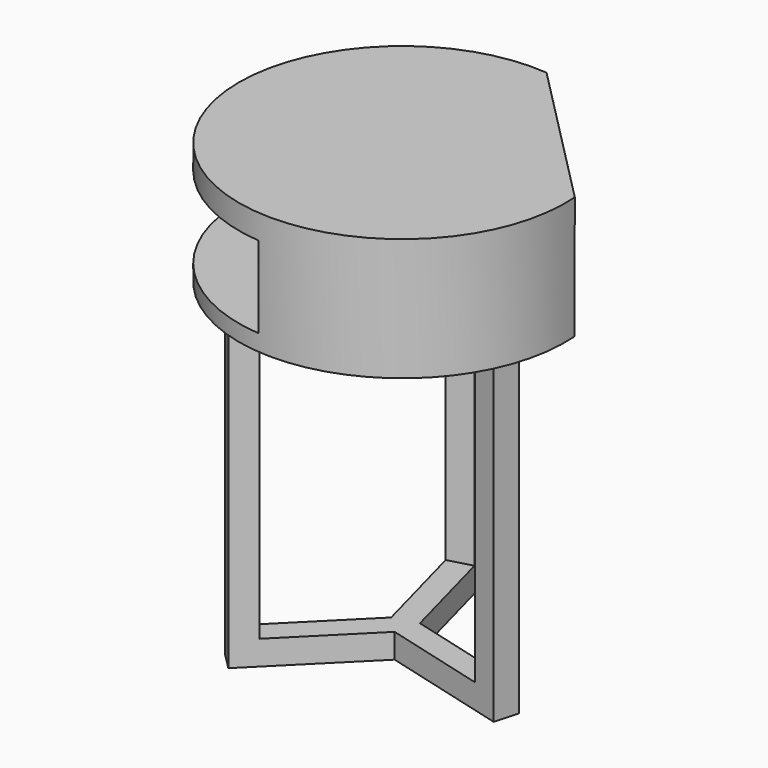
from build123d import *

# Parameters (mm, degrees)
F1_DEPTH  = 38.1
F2_DEPTH  = 469.9
F3_DEPTH  = 469.9
F4_DEPTH  = 469.9
F6_DEPTH  = 25.4
F8_DEPTH  = 127
F9_R      = 254
F10_DEPTH = 38.1
F12_DEPTH = 38.1


with BuildPart() as f1:
    # F0 (on Top) → F1 (new body)
    with BuildSketch(Plane.XY):
        Polygon((-164.0508631923, -164.0508649307), (-200.8490917777, -173.9250926458), (-173.9250929642, -200.8490929642), align=None)
        Polygon((-173.9250929642, -200.8490929642), (-200.8490917777, -173.9250926458), (-317.5924246142, -290.6684189572), (-290.6851930936, -317.6091865675), align=None)
        Polygon((-243.6374118769, -14.4661021088), (-200.8490917777, -173.9250926458), (-164.0508631923, -164.0508649307), (-206.8391832914, -4.5918743936), align=None)
        Polygon((-164.0508631923, -164.0508649307), (-173.9250929642, -200.8490929642), (-14.4661048188, -243.6374219761), (-4.5918750468, -206.8391939425), align=None)
        Polygon((-290.6851930936, -317.6091865675), (-317.5924246142, -290.6684189572), (-344.5331937303, -317.6091865675), (-317.6259622097, -344.5499541778), align=None)
        Polygon((-253.5116395921, 22.3321264767), (-243.6374118769, -14.4661021088), (-206.8391832914, -4.5918743936), (-216.7134110066, 32.2063541919), align=None)
        Polygon((-4.5918750468, -206.8391939425), (-14.4661048188, -243.6374219761), (22.3321232148, -253.5116517481), (32.2063529868, -216.7134237145), align=None)
    extrude(amount=-F1_DEPTH)

    # F0 (on Top) → F2 (join)
    with BuildSketch(Plane.XY):
        Polygon((-290.6851930936, -317.6091865675), (-317.5924246142, -290.6684189572), (-344.5331937303, -317.6091865675), (-317.6259622097, -344.5499541778), align=None)
    extrude(amount=F2_DEPTH)

    # F0 (on Top) → F3 (join)
    with BuildSketch(Plane.XY):
        Polygon((-4.5918750468, -206.8391939425), (-14.4661048188, -243.6374219761), (22.3321232148, -253.5116517481), (32.2063529868, -216.7134237145), align=None)
    extrude(amount=F3_DEPTH)

    # F0 (on Top) → F4 (join)
    with BuildSketch(Plane.XY):
        Polygon((-253.5116395921, 22.3321264767), (-243.6374118769, -14.4661021088), (-206.8391832914, -4.5918743936), (-216.7134110066, 32.2063541919), align=None)
    extrude(amount=F4_DEPTH)

    # F5 (on face) → F6 (join)
    with BuildSketch(Plane.XY.offset(469.9)):
        with BuildLine():
            Line((75.3796231443, -162.8212069793), (-156.5023640677, 72.2591707782))
            ThreePointArc((-156.5023640677, 72.2591707782), (-358.8121384382, -359.2018192073), (75.3796231443, -162.8212069793))
        make_face()
    extrude(amount=F6_DEPTH)

    # F7 (on face) → F8 (join)
    with BuildSketch(Plane.XY.offset(495.3)):
        with BuildLine():
            Line((75.3796231443, -162.8212069793), (-199.4597931818, -433.9212904052))
            ThreePointArc((-199.4597931818, -433.9212904052), (0.3896807691, -361.662119627), (75.3796231443, -162.8212069793))
        make_face()
        with BuildLine():
            ThreePointArc((-156.5023640677, 72.2591707782), (-356.3518380185, 0), (-431.3417803937, -198.8409126477))
            Line((-431.3417803937, -198.8409126477), (-156.5023640677, 72.2591707782))
        make_face()
    extrude(amount=F8_DEPTH)

    # F9 (on face) → F10 (join)
    with BuildSketch(Plane.XY.offset(622.3)):
        with Locations((-177.9810786247, -180.8310598135)):
            Circle(F9_R)
    extrude(amount=F10_DEPTH)

    # F11 (on face) → F12 (cut)
    with BuildSketch(Plane.XY.offset(660.4)):
        with BuildLine():
            ThreePointArc((75.3308407052, -162.1476038864), (2.7361824332, -2.3450055803), (-156.1522700542, 72.2292158451))
            Line((-156.1522700542, 72.2292158451), (75.3308407052, -162.1476038864))
        make_face()
    extrude(amount=-F12_DEPTH, mode=Mode.SUBTRACT)


solid = f1.part
